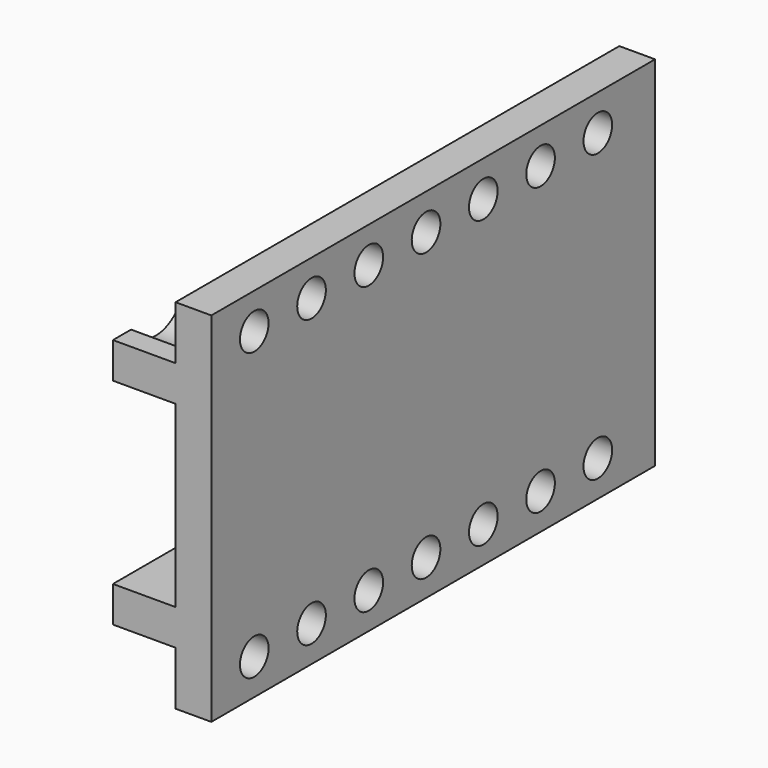
from build123d import *

# Parameters (mm, degrees)
PAD028_DEPTH    = 62
SKETCH049_W     = 40
SKETCH049_H     = 62
PAD029_DEPTH    = 4
SKETCH009_R     = 2
POCKET017_DEPTH = 4
SKETCH010_R     = 4
POCKET018_DEPTH = 7


with BuildPart() as leftmiddle:
    # Sketch048 → Pad028 (new body)
    with BuildSketch(Plane.XZ):
        Polygon((0, 0), (0, 10), (7, 10), (7, 14), (-4, 14), (-4, -14), (7, -14), (7, -10), (0, -10), align=None)
    extrude(amount=PAD028_DEPTH)

    # Sketch049 (on Face4 of Pad028) → Pad029 (join)
    with BuildSketch(Plane(origin=(-4, 0, 0), x_dir=(0, 0, -1), z_dir=(-1, 0, 0))):
        with Locations((0, 31)):
            Rectangle(SKETCH049_W, SKETCH049_H)
    extrude(amount=-PAD029_DEPTH)

    # Sketch009 (on Face14 of Pad029) → Pocket017 (cut)
    with BuildSketch(Plane(origin=(-4, 0, 0), x_dir=(0, 0, -1), z_dir=(-1, 0, 0))):
        with Locations((-16, 8)):
            Circle(SKETCH009_R)
        with Locations((-16, 16)):
            Circle(SKETCH009_R)
        with Locations((-16, 24)):
            Circle(SKETCH009_R)
        with Locations((-16, 32)):
            Circle(SKETCH009_R)
        with Locations((-16, 40)):
            Circle(SKETCH009_R)
        with Locations((-16, 48)):
            Circle(SKETCH009_R)
        with Locations((-16, 56)):
            Circle(SKETCH009_R)
        with Locations((16, 56)):
            Circle(SKETCH009_R)
        with Locations((16, 48)):
            Circle(SKETCH009_R)
        with Locations((16, 40)):
            Circle(SKETCH009_R)
        with Locations((16, 32)):
            Circle(SKETCH009_R)
        with Locations((16, 24)):
            Circle(SKETCH009_R)
        with Locations((16, 16)):
            Circle(SKETCH009_R)
        with Locations((16, 8)):
            Circle(SKETCH009_R)
    extrude(amount=-POCKET017_DEPTH, mode=Mode.SUBTRACT)

    # Sketch010 (on Face14 of Pocket017) → Pocket018 (cut)
    with BuildSketch(Plane(origin=(0, 0, 0), x_dir=(0, 0, 1), z_dir=(1, 0, 0))):
        with Locations((-16, 8)):
            Circle(SKETCH010_R)
        with Locations((-16, 16)):
            Circle(SKETCH010_R)
        with Locations((-16, 24)):
            Circle(SKETCH010_R)
        with Locations((-16, 32)):
            Circle(SKETCH010_R)
        with Locations((-16, 40)):
            Circle(SKETCH010_R)
        with Locations((-16, 48)):
            Circle(SKETCH010_R)
        with Locations((-16, 56)):
            Circle(SKETCH010_R)
        with Locations((16, 56)):
            Circle(SKETCH010_R)
        with Locations((16, 48)):
            Circle(SKETCH010_R)
        with Locations((16, 40)):
            Circle(SKETCH010_R)
        with Locations((16, 32)):
            Circle(SKETCH010_R)
        with Locations((16, 24)):
            Circle(SKETCH010_R)
        with Locations((16, 16)):
            Circle(SKETCH010_R)
        with Locations((16, 8)):
            Circle(SKETCH010_R)
    extrude(amount=POCKET018_DEPTH, mode=Mode.SUBTRACT)


with BuildPart() as leftmiddle_1:
    # Body015 placement: moved
    add(leftmiddle.part.moved(Location((-92, -203.5, 13.5))))


with BuildPart() as rightmiddle:
    # Part__Mirroring005: instance of LeftMiddle
    add(leftmiddle_1.part.mirror(Plane(origin=(0, 0, 0), x_dir=(0, -1, 0), z_dir=(1, 0, 0))))


solid = rightmiddle.part
